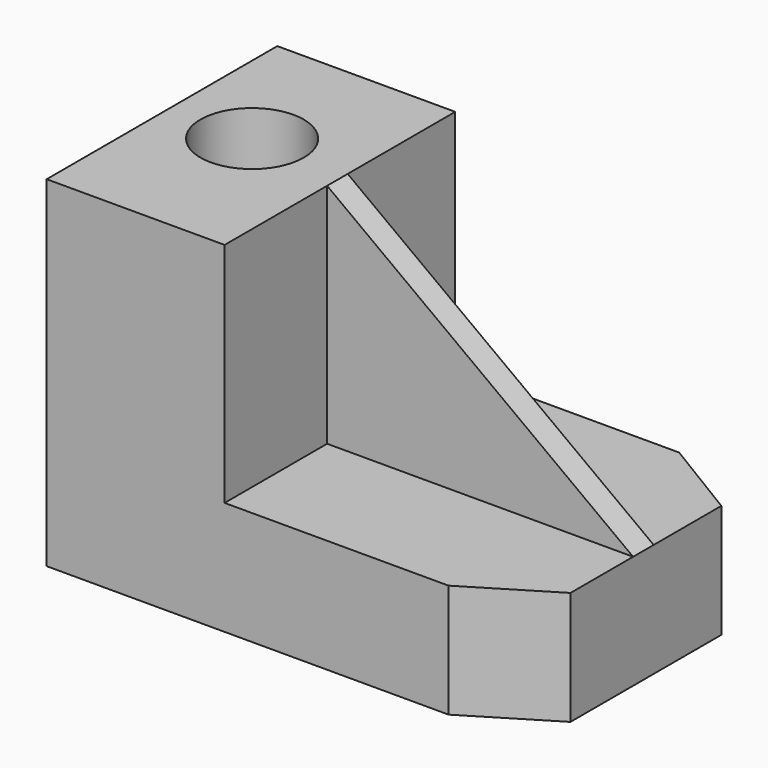
from build123d import *

# Parameters (mm, degrees)
F0_R     = 11.5502364961
F1_DEPTH = 76.2
F2_DEPTH = 25.4
F3_DEPTH = 25.4
F0_W     = 68.4429863468
F0_H     = 5.7512475178
F4_DEPTH = 76.2
F6_DEPTH = 25.4


with BuildPart() as f1:
    # F0 (on Top) → F1 (new body)
    with BuildSketch(Plane.XY):
        Polygon((-8.7633775547, 30.0670936704), (-48.5640950501, 30.0670936704), (-48.5640950501, -34.4098359346), (-8.7633775547, -34.4098359346), (-8.7633775547, -5.7512475178), (-8.7633775547, 0), align=None)
        with Locations((-30.1417633891, 0)):
            Circle(F0_R, mode=Mode.SUBTRACT)
    extrude(amount=F1_DEPTH)

    # F0 (on Top) → F2 (join)
    with BuildSketch(Plane.XY):
        Polygon((-8.7633775547, -5.7512475178), (-8.7633775547, -34.4098359346), (41.3302518427, -34.4098359346), (59.6796087921, -23.2587810606), (59.6796087921, -5.7512475178), align=None)
    extrude(amount=F2_DEPTH)

    # F0 (on Top) → F3 (join)
    with BuildSketch(Plane.XY):
        Polygon((41.3302518427, 30.0670936704), (-8.7633775547, 30.0670936704), (-8.7633775547, 0), (59.6796087921, 0), (59.6796087921, 18.9160387963), align=None)
    extrude(amount=F3_DEPTH)

    # F0 (on Top) → F4 (join)
    with BuildSketch(Plane.XY):
        with Locations((25.4581156187, -2.8756237589)):
            Rectangle(F0_W, F0_H)
    extrude(amount=F4_DEPTH)

    # F5 (on face) → F6 (cut)
    with BuildSketch(Plane.XZ.offset(5.7512475178)):
        Polygon((59.6796087921, 76.2), (-8.7633775547, 76.2), (59.6796087921, 25.4), align=None)
    extrude(amount=-F6_DEPTH, mode=Mode.SUBTRACT)


solid = f1.part
